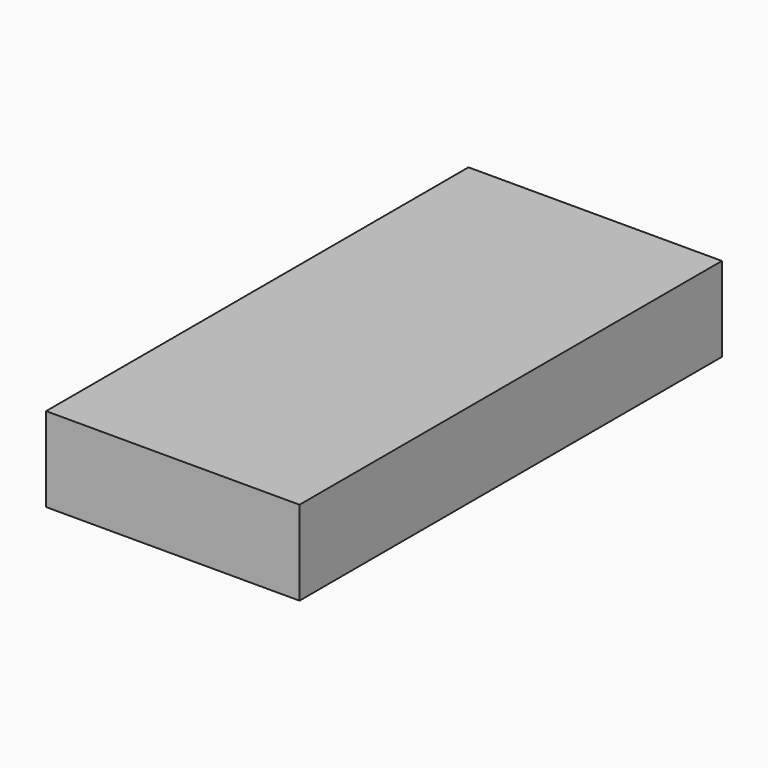
from build123d import *

# Parameters (mm, degrees)
F0_W     = 60
F0_H     = 125
F1_DEPTH = 20
F2_W     = 57
F2_H     = 60.25
F3_DEPTH = 18.5
F4_R     = 4


with BuildPart() as f1:
    # F0 (on Top) → F1 (new body)
    with BuildSketch(Plane.XY):
        Rectangle(F0_W, F0_H)
    extrude(amount=F1_DEPTH)

    # F2 (on Top) → F3 (cut)
    with BuildSketch(Plane.XY):
        with Locations((0, 30.875)):
            Rectangle(F2_W, F2_H)
        with Locations((0, -30.875)):
            Rectangle(F2_W, F2_H)
    extrude(amount=F3_DEPTH, mode=Mode.SUBTRACT)

    # F4
    f4_edges = [f1.edges().sort_by_distance(p)[0] for p in [
        (28.5, -61, 9.25),
        (28.5, 0.75, 9.25),
        (-28.5, -61, 9.25),
        (-28.5, 0.75, 9.25),
        (-28.5, -0.75, 9.25),
        (-28.5, 61, 9.25),
        (28.5, 61, 9.25),
        (28.5, -0.75, 9.25),
    ]]
    fillet(f4_edges, radius=F4_R)


solid = f1.part
